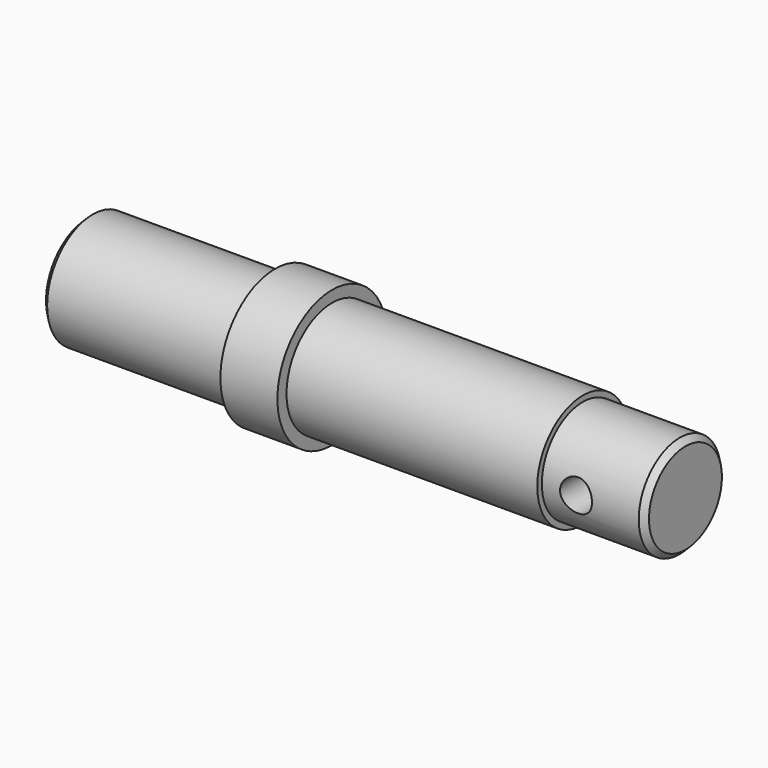
from build123d import *

# Parameters (mm, degrees)
F0_R     = 12
F1_DEPTH = 10
F2_R     = 10
F3_DEPTH = 33
F4_DEPTH = 54
F5_R     = 9
F6_DEPTH = 18
F9_DEPTH = 5.501
F10_SIZE = 1
F11_W    = 2.5
F11_H    = 0.980663


with BuildPart() as f1:
    # F0 (on Right) → F1 (new body)
    with BuildSketch(Plane.YZ):
        Circle(F0_R)
    extrude(amount=F1_DEPTH)

    # F2 (on face) → F3 (join)
    with BuildSketch(Plane(origin=(0, 0, 0), x_dir=(0, -1, 0), z_dir=(-1, 0, 0))):
        Circle(F2_R)
    extrude(amount=F3_DEPTH)

    # F2 (on face) → F4 (join)
    with BuildSketch(Plane(origin=(0, 0, 0), x_dir=(0, -1, 0), z_dir=(-1, 0, 0))):
        Circle(F2_R)
    extrude(amount=-F4_DEPTH)

    # F5 (on face) → F6 (join)
    with BuildSketch(Plane.YZ.offset(54)):
        Circle(F5_R)
    extrude(amount=F6_DEPTH)

    # F8 (on offset) → F9 (cut, through all)
    with BuildSketch(Plane.XZ.offset(-6.5)):
        with BuildLine():
            Line((-33, 3), (-33, -3))
            Line((-33, -3), (-6, -3))
            ThreePointArc((-6, -3), (-3, 0), (-6, 3))
            Line((-6, 3), (-33, 3))
        make_face()
    extrude(amount=-F9_DEPTH, mode=Mode.SUBTRACT)

    # F10
    f10_edges = [f1.edges().sort_by_distance(p)[0] for p in [
        (-33, -1.517577, -9.884177),
        (-33, -1.517577, 9.884177),
        (72, -9, 0),
    ]]
    chamfer(f10_edges, length=F10_SIZE)

    # F11 (on Top) → F12 (revolve, cut)
    with BuildSketch(Plane.XY):
        with Locations((61.25, 9.490331)):
            Rectangle(F11_W, F11_H)
        Polygon((62.5, 9), (60, 9), (60, -9), (62.8, -9), align=None)
        Polygon((62.8, -9), (60, -9), (60, -10.015493), (62.816925, -10.015493), align=None)
    revolve(axis=Axis((60, -0.455183, 0), (0, -1, 0)), mode=Mode.SUBTRACT)


solid = f1.part
